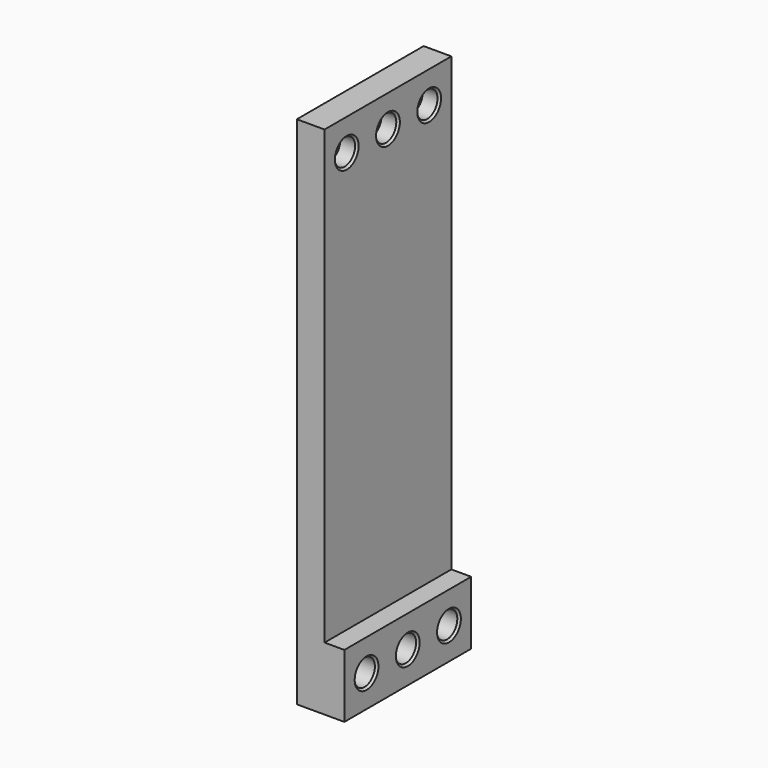
from build123d import *

# Parameters (mm, degrees)
F0_W     = 40
F0_H     = 130
F0_R     = 3.25
F1_DEPTH = 7
F2_W     = 40
F2_H     = 16
F2_R     = 3.25
F3_DEPTH = 5
F4_SIZE  = 2.75
F5_SIZE  = 0.5


with BuildPart() as f1:
    # F0 (on Right) → F1 (new body)
    with BuildSketch(Plane.YZ):
        with Locations((0, 57)):
            Rectangle(F0_W, F0_H)
        with Locations((-13, 0)):
            Circle(F0_R, mode=Mode.SUBTRACT)
        Circle(F0_R, mode=Mode.SUBTRACT)
        with Locations((13, 0)):
            Circle(F0_R, mode=Mode.SUBTRACT)
        with Locations((-13, 114)):
            Circle(F0_R, mode=Mode.SUBTRACT)
        with Locations((0, 114)):
            Circle(F0_R, mode=Mode.SUBTRACT)
        with Locations((13, 114)):
            Circle(F0_R, mode=Mode.SUBTRACT)
    extrude(amount=-F1_DEPTH)

    # F2 (on face) → F3 (join)
    with BuildSketch(Plane.YZ):
        Rectangle(F2_W, F2_H)
        with Locations((-13, 0)):
            Circle(F2_R, mode=Mode.SUBTRACT)
        Circle(F2_R, mode=Mode.SUBTRACT)
        with Locations((13, 0)):
            Circle(F2_R, mode=Mode.SUBTRACT)
    extrude(amount=F3_DEPTH)

    # F4
    f4_edges = [f1.edges().sort_by_distance(p)[0] for p in [
        (-7, -16.25, 0),
        (-7, -3.25, 0),
        (-7, 9.75, 0),
        (-7, 9.75, 114),
        (-7, -3.25, 114),
        (-7, -16.25, 114),
    ]]
    chamfer(f4_edges, length=F4_SIZE)

    # F5
    f5_edges = [f1.edges().sort_by_distance(p)[0] for p in [
        (5, -16.25, 0),
        (5, -3.25, 0),
        (5, 9.75, 0),
        (0, -16.25, 114),
        (0, -3.25, 114),
        (0, 9.75, 114),
    ]]
    chamfer(f5_edges, length=F5_SIZE)


solid = f1.part
